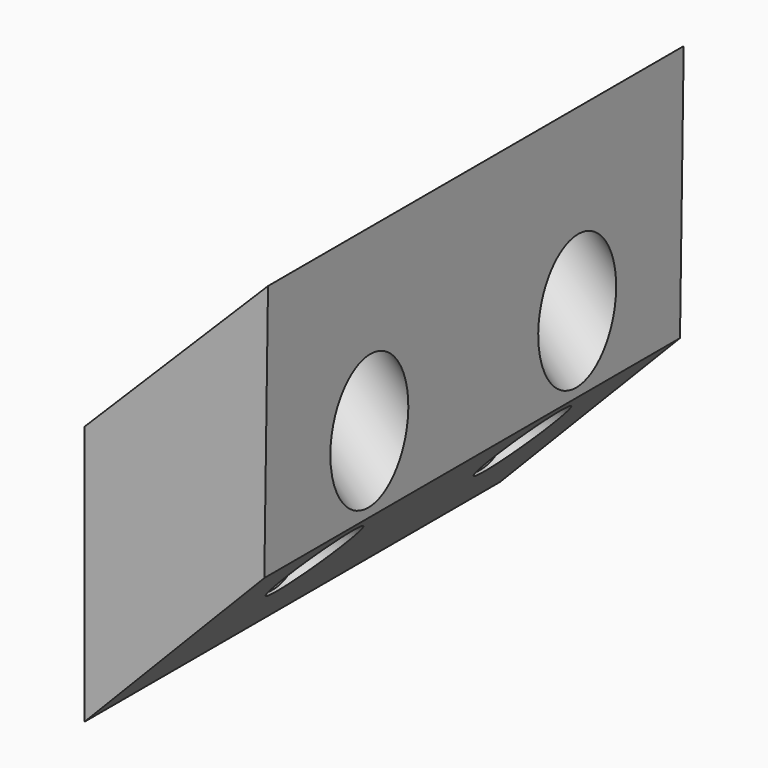
from build123d import *

# Parameters (mm, degrees)
F1_DEPTH  = 20
F2_R      = 3.75
F3_DEPTH  = 4.5
F5_R      = 1.625
F6_DEPTH  = 2
F8_R      = 3
F9_DEPTH  = 7.1339190804
F11_R     = 1.75
F12_DEPTH = 2
F14_R     = 3.75
F15_DEPTH = 12.3627990274


with BuildPart() as f1:
    # F0 (on Front) → F1 (new body, symmetric)
    with BuildSketch(Plane.XZ):
        Polygon((0, 20), (0, 0), (13.8581929877, 14.2597485145), (14.1421356237, 34.1421356237), align=None)
    extrude(amount=F1_DEPTH, both=True)

    # F2 (on Right) → F3 (cut)
    with BuildSketch(Plane.YZ):
        with Locations((10, 10)):
            Circle(F2_R)
        with Locations((-10, 10)):
            Circle(F2_R)
    extrude(amount=F3_DEPTH, mode=Mode.SUBTRACT)

    # F5 (on offset) → F6 (cut)
    with BuildSketch(Plane(origin=(4.5, 0, 0), x_dir=(0, -1, 0), z_dir=(-1, 0, 0))):
        with Locations((-10, 10)):
            Circle(F5_R)
        with Locations((10, 10)):
            Circle(F5_R)
    extrude(amount=-F6_DEPTH, mode=Mode.SUBTRACT)

    # F8 (on offset) → F9 (cut, up to face)
    with BuildSketch(Plane(origin=(6.5, 0, 0), x_dir=(0, -1, 0), z_dir=(-1, 0, 0))):
        with Locations((-10, 10)):
            Circle(F8_R)
        with Locations((10, 10)):
            Circle(F8_R)
    extrude(amount=-F9_DEPTH, mode=Mode.SUBTRACT)

    # F11 (on offset) → F12 (cut)
    with BuildSketch(Plane(origin=(-10, 0, 10), x_dir=(0, -1, 0), z_dir=(-0.7071067812, 0, 0.7071067812))):
        with Locations((-10, 24.1421356237)):
            Circle(F11_R)
        with Locations((10, 24.1421356237)):
            Circle(F11_R)
    extrude(amount=-F12_DEPTH, mode=Mode.SUBTRACT)

    # F14 (on offset) → F15 (cut, up to face)
    with BuildSketch(Plane(origin=(-8.5857864376, 0, 8.5857864376), x_dir=(0, -1, 0), z_dir=(-0.7071067812, 0, 0.7071067812))):
        with Locations((-10, 24.1421356237)):
            Circle(F14_R)
        with Locations((10, 24.1421356237)):
            Circle(F14_R)
    extrude(amount=-F15_DEPTH, mode=Mode.SUBTRACT)


solid = f1.part
